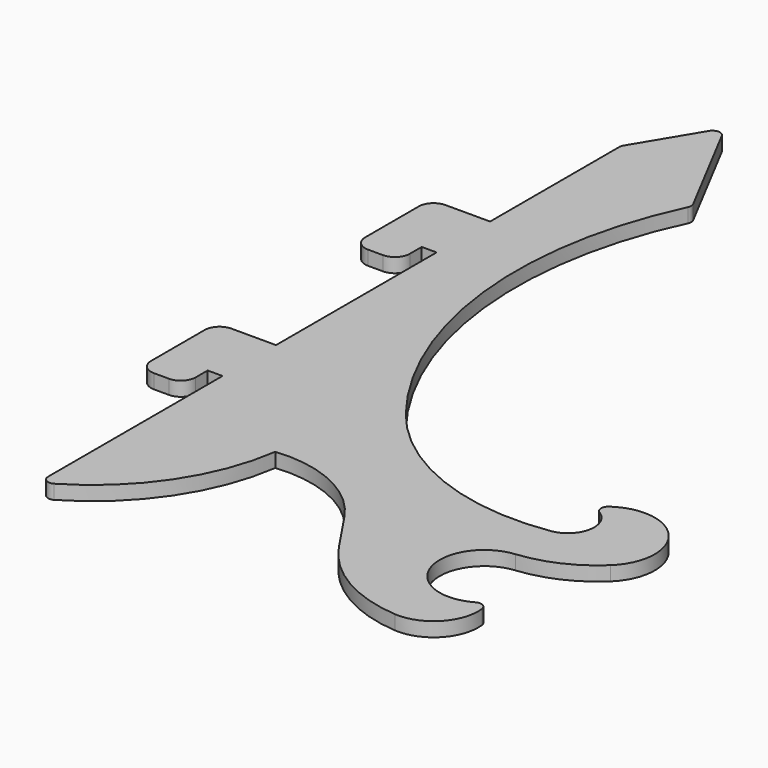
from build123d import *

# Parameters (mm, degrees)
F1_DEPTH = 3.048
F2_R     = 1.5875
F3_R     = 1.5875
F6_DEPTH = 3.048
F7_R     = 3.175


with BuildPart() as f1:
    # F0 (on Top) → F1 (new body)
    with BuildSketch(Plane.XY):
        with BuildLine():
            Line((0, 155.58008), (0, 0))
            ThreePointArc((0, 0), (16.0657413669, 13.7349520409), (23.97125, 33.3375))
            ThreePointArc((23.97125, 33.3375), (37.3369555145, 31.0567606666), (47.625, 22.225))
            Line((47.625, 22.225), (53.8189600327, 12.9988136067))
            ThreePointArc((53.8189600327, 12.9988136067), (63.5103539034, 3.9182480558), (76.2, 0))
            ThreePointArc((76.2, 0), (84.5606216914, 3.8628501031), (85.725, 12.9988136067))
            ThreePointArc((85.725, 12.9988136067), (70.5986800518, 16.1095982153), (78.3488880049, 29.4668738634))
            ThreePointArc((78.3488880049, 29.4668738634), (86.3561779724, 31.6298543693), (93.2245193167, 36.2797000087))
            ThreePointArc((93.2245193167, 36.2797000087), (93.1785865006, 51.6968245155), (77.7875, 50.8))
            ThreePointArc((77.7875, 50.8), (82.55, 45.24375), (77.7875, 39.6875))
            ThreePointArc((77.7875, 39.6875), (52.6711069912, 42.4967613697), (32.4185803799, 57.614972675))
            ThreePointArc((32.4185803799, 57.614972675), (14.997327874, 100.4660683399), (22.86, 146.05))
            Line((22.86, 146.05), (9.525, 171.45))
            Line((9.525, 171.45), (0, 155.58008))
        make_face()
    extrude(amount=F1_DEPTH)

    # F2
    f2_edges = [f1.edges().sort_by_distance(p)[0] for p in [
        (0, 0, 1.524),
    ]]
    fillet(f2_edges, radius=F2_R)

    # F3
    f3_edges = [f1.edges().sort_by_distance(p)[0] for p in [
        (85.725, 12.998814, 1.524),
        (22.86, 146.05, 1.524),
        (9.525, 171.45, 1.524),
        (0, 155.58008, 1.524),
        (77.7875, 50.8, 1.524),
    ]]
    fillet(f3_edges, radius=F3_R)


with BuildPart() as f4_1:
    # F4: copy of F1
    add(f1.part)

    # F5 (on face) → F6 (join)
    with BuildSketch(Plane.XY.offset(3.048)):
        Polygon((0, 49.2125), (0, 63.5), (-12.7, 63.5), (-12.7, 42.8625), (-3.175, 42.8625), (-3.175, 49.2125), align=None)
        Polygon((0, 106.3625), (0, 120.65), (-12.7, 120.65), (-12.7, 100.0125), (-3.175, 100.0125), (-3.175, 106.3625), align=None)
    extrude(amount=-F6_DEPTH)

    # F7
    f7_edges = [f4_1.edges().sort_by_distance(p)[0] for p in [
        (-12.7, 120.65, 1.524),
        (-12.7, 100.0125, 1.524),
        (-12.7, 63.5, 1.524),
        (-12.7, 42.8625, 1.524),
        (-3.175, 100.0125, 1.524),
        (-3.175, 42.8625, 1.524),
    ]]
    fillet(f7_edges, radius=F7_R)


solid = Compound([f1.part, f4_1.part])
